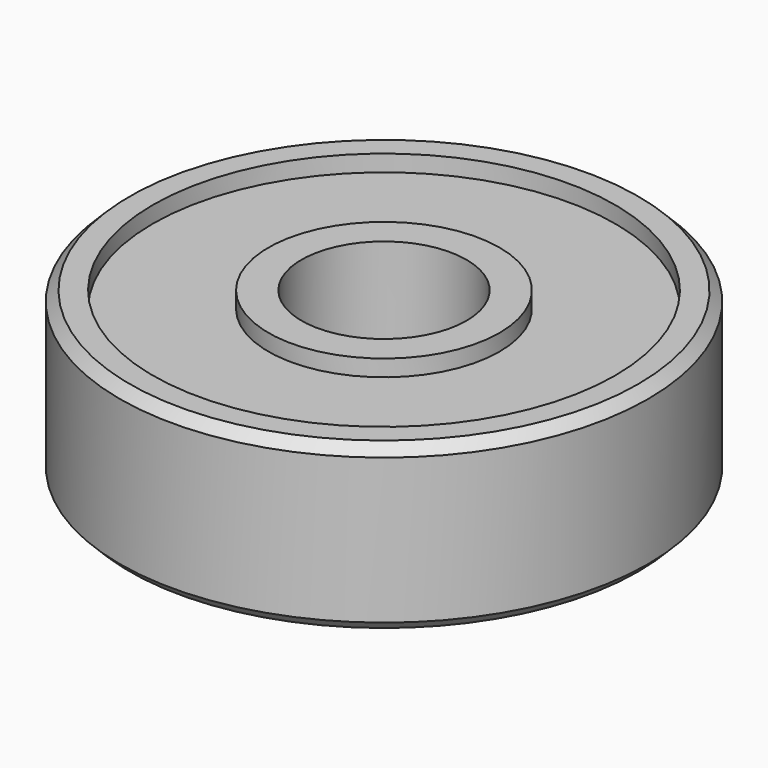
from build123d import *

# Parameters (mm, degrees)
F0_R     = 8
F1_DEPTH = 2.5
F2_R     = 7
F3_DEPTH = 0.5
F4_R     = 3.5
F5_DEPTH = 0.5
F6_R     = 2.5
F7_DEPTH = 25
F9_SIZE  = 0.3


with BuildPart() as f1:
    # F0 (on Top) → F1 (new body)
    with BuildSketch(Plane.XY):
        Circle(F0_R)
    extrude(amount=F1_DEPTH)

    # F2 (on face) → F3 (cut)
    with BuildSketch(Plane.XY.offset(2.5)):
        Circle(F2_R)
    extrude(amount=-F3_DEPTH, mode=Mode.SUBTRACT)

    # F4 (on face) → F5 (join)
    with BuildSketch(Plane.XY.offset(2)):
        Circle(F4_R)
    extrude(amount=F5_DEPTH)

    # F6 (on face) → F7 (cut)
    with BuildSketch(Plane.XY.offset(2.5)):
        Circle(F6_R)
    extrude(amount=-F7_DEPTH, mode=Mode.SUBTRACT)

    # F8: F1 across face


with BuildPart() as f1_1:
    add(f1.part)
    add(f1.part.mirror(Plane(origin=(0, 0, 0), x_dir=(1, 0, 0), z_dir=(0, 0, -1))))

    # F9
    f9_edges = [f1_1.edges().sort_by_distance(p)[0] for p in [
        (-8, 0, 2.5),
        (-8, 0, -2.5),
    ]]
    chamfer(f9_edges, length=F9_SIZE)


solid = f1_1.part
